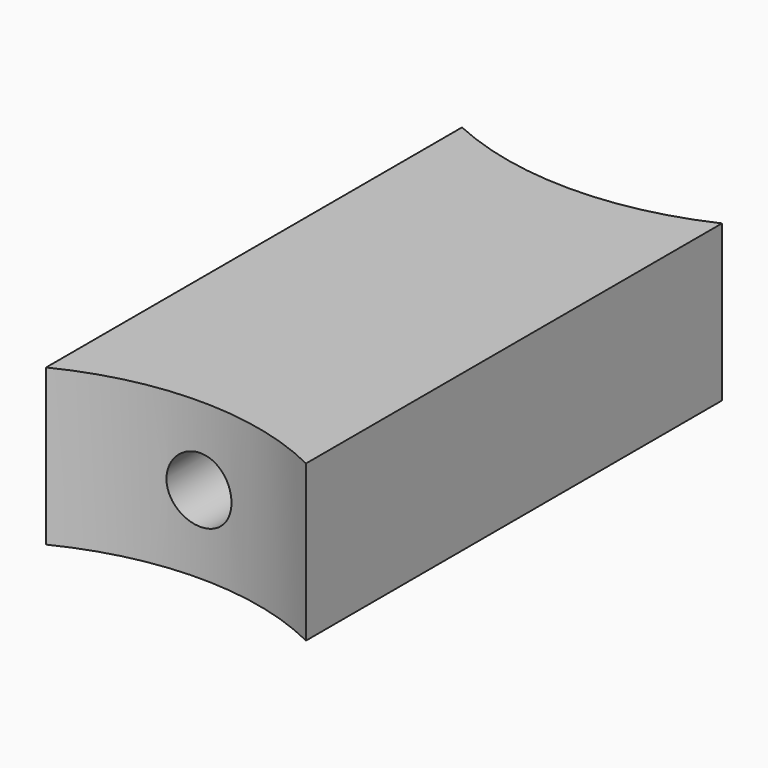
from build123d import *

# Parameters (mm, degrees)
F0_W     = 20
F0_H     = 12
F1_DEPTH = 40
F3_DEPTH = 16
F5_D     = 5


with BuildPart() as f1:
    # F0 (on Front) → F1 (new body)
    with BuildSketch(Plane.XZ):
        Rectangle(F0_W, F0_H)
    extrude(amount=F1_DEPTH)

    # F2 (on face) → F3 (cut)
    with BuildSketch(Plane.XY.offset(6)):
        with BuildLine():
            Line((10, 0), (-10, 0))
            ThreePointArc((-10, 0), (0, -2.182576), (10, 0))
        make_face()
        with BuildLine():
            Line((-10, -40), (10, -40))
            ThreePointArc((10, -40), (0, -37.655644), (-10, -40))
        make_face()
    extrude(amount=-F3_DEPTH, mode=Mode.SUBTRACT)

    # F5 (through all)
    with Locations(Plane(origin=(0, 0, 0), x_dir=(1, 0, 0), z_dir=(0, 1, 0))):
        with Locations((0, 0)):
            Hole(F5_D / 2)


solid = f1.part
